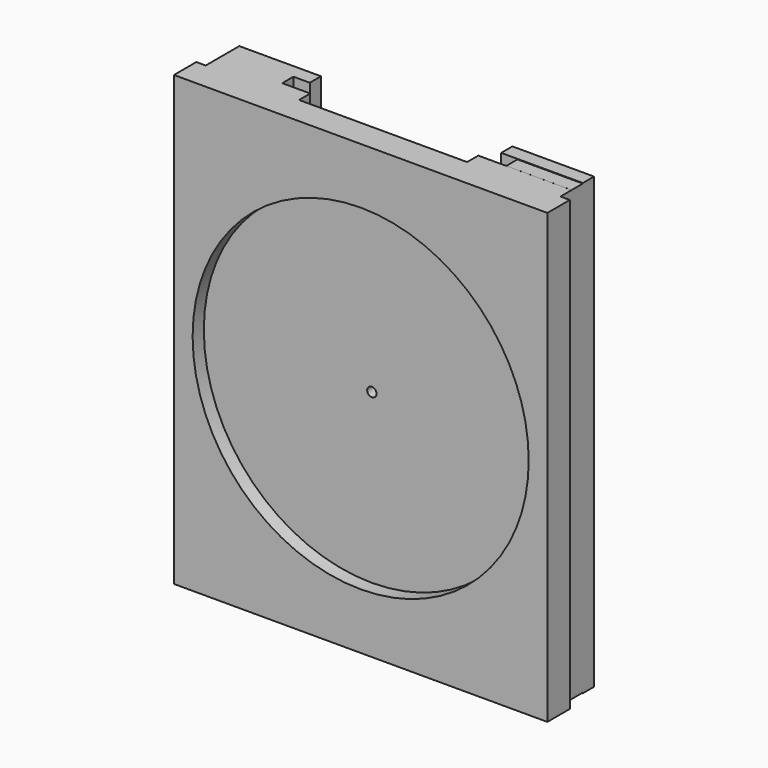
from build123d import *

# Parameters (mm, degrees)
F0_W     = 508
F0_H     = 609.6
F1_DEPTH = 19.05
F2_W     = 127
F2_H     = 609.6
F3_DEPTH = 19.05
F4_W     = 88.9
F4_H     = 609.6
F5_DEPTH = 19.05
F6_W     = 88.9
F6_H     = 609.6
F6_W_2   = 22.225
F6_W_3   = 111.125
F6_H_2   = 611.105501
F7_DEPTH = 19.05
F8_W     = 508
F8_H     = 609.6
F8_R     = 228.6
F9_DEPTH = 19.05
F10_D    = 12.7


with BuildPart() as f1:
    # F0 (on Front) → F1 (new body)
    with BuildSketch(Plane.XZ):
        Rectangle(F0_W, F0_H)
    extrude(amount=F1_DEPTH)

    # F2 (on face) → F3 (join)
    with BuildSketch(Plane(origin=(0, 0, 0), x_dir=(-1, 0, 0), z_dir=(0, 1, 0))):
        with Locations((177.8, 0)):
            Rectangle(F2_W, F2_H)
        with Locations((-177.8, 0)):
            Rectangle(F2_W, F2_H)
    extrude(amount=F3_DEPTH)

    # F4 (on face) → F5 (join)
    with BuildSketch(Plane(origin=(0, 19.05, 0), x_dir=(-1, 0, 0), z_dir=(0, 1, 0))):
        with Locations((196.85, 0)):
            Rectangle(F4_W, F4_H)
        with Locations((-196.85, 0.023927)):
            Rectangle(F4_W, F4_H)
    extrude(amount=F5_DEPTH)

    # F6 (on face) → F7 (join)
    with BuildSketch(Plane(origin=(0, 38.1, 0), x_dir=(-1, 0, 0), z_dir=(0, 1, 0))):
        with Locations((196.85, 0)):
            Rectangle(F6_W, F6_H)
        with Locations((141.2875, 0)):
            Rectangle(F6_W_2, F6_H)
        with Locations((-185.7375, -0.065833)):
            Rectangle(F6_W_3, F6_H_2)
    extrude(amount=F7_DEPTH)

    # F8 (on face) → F9 (join)
    with BuildSketch(Plane.XZ.offset(19.05)):
        Rectangle(F8_W, F8_H)
        Circle(F8_R, mode=Mode.SUBTRACT)
    extrude(amount=F9_DEPTH)

    # F10 (through all)
    with Locations(Plane.XZ.offset(19.05)):
        with Locations((0, 0)):
            Hole(F10_D / 2)


solid = f1.part
